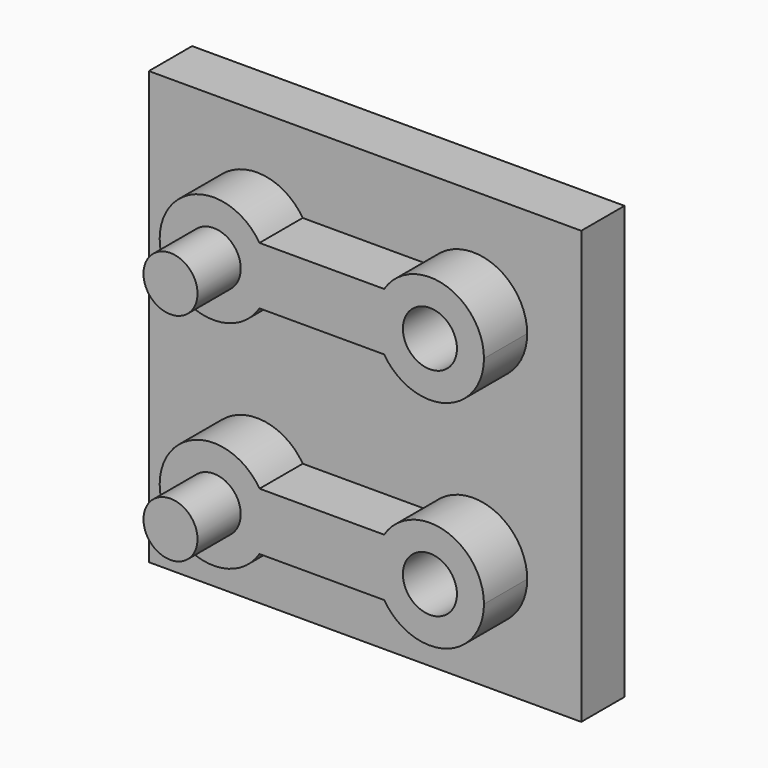
from build123d import *

# Parameters (mm, degrees)
F0_W     = 50.8
F0_H     = 50.8
F0_R     = 3.175
F1_DEPTH = 6.35
F2_DEPTH = 12.7
F3_R     = 3.175
F4_DEPTH = 6.35


with BuildPart() as f1:
    # F0 (on Front) → F1 (new body)
    with BuildSketch(Plane.XZ):
        Rectangle(F0_W, F0_H)
        with Locations((-12.7, -12.7)):
            Circle(F0_R, mode=Mode.SUBTRACT)
        with Locations((-12.7, 12.7)):
            Circle(F0_R, mode=Mode.SUBTRACT)
        with Locations((-12.7, 12.7)):
            Circle(F0_R)
        with Locations((-12.7, -12.7)):
            Circle(F0_R)
    extrude(amount=-F1_DEPTH)

    # F0 (on Front) → F2 (join)
    with BuildSketch(Plane.XZ):
        with Locations((-12.7, -12.7)):
            Circle(F0_R)
        with Locations((-12.7, 12.7)):
            Circle(F0_R)
    extrude(amount=F2_DEPTH)


with BuildPart() as f4:
    # F3 (on face) → F4 (new body)
    with BuildSketch(Plane.XZ):
        with BuildLine():
            ThreePointArc((-7.326959, 9.315783), (-6.599127, 10.938795), (-6.35, 12.7))
            ThreePointArc((-6.35, 12.7), (-6.599127, 14.461205), (-7.326959, 16.084217))
            ThreePointArc((-7.326959, 16.084217), (-19.05, 12.7), (-7.326959, 9.315783))
        make_face()
        with Locations((-12.7, 12.7)):
            Circle(F3_R, mode=Mode.SUBTRACT)
        with BuildLine():
            ThreePointArc((-7.326959, 16.084217), (-6.599127, 14.461205), (-6.35, 12.7))
            ThreePointArc((-6.35, 12.7), (-6.599127, 10.938795), (-7.326959, 9.315783))
            Line((-7.326959, 9.315783), (7.326959, 9.315783))
            ThreePointArc((7.326959, 9.315783), (6.35, 12.7), (7.326959, 16.084217))
            Line((7.326959, 16.084217), (-7.326959, 16.084217))
        make_face()
        with BuildLine():
            ThreePointArc((19.05, 12.7), (14.461205, 18.800873), (7.326959, 16.084217))
            ThreePointArc((7.326959, 16.084217), (6.35, 12.7), (7.326959, 9.315783))
            ThreePointArc((7.326959, 9.315783), (14.461205, 6.599127), (19.05, 12.7))
        make_face()
        with Locations((12.7, 12.7)):
            Circle(F3_R, mode=Mode.SUBTRACT)
        with BuildLine():
            ThreePointArc((-7.330537, -16.089892), (-6.600058, -14.464427), (-6.35, -12.7))
            ThreePointArc((-6.35, -12.7), (-6.596454, -10.948078), (-7.316686, -9.332147))
            ThreePointArc((-7.316686, -9.332147), (-19.049987, -12.686985), (-7.330537, -16.089892))
        make_face()
        with Locations((-12.7, -12.7)):
            Circle(F3_R, mode=Mode.SUBTRACT)
        with BuildLine():
            ThreePointArc((-7.316686, -9.332147), (-6.596454, -10.948078), (-6.35, -12.7))
            ThreePointArc((-6.35, -12.7), (-6.600058, -14.464427), (-7.330537, -16.089892))
            Line((-7.330537, -16.089892), (7.330537, -16.089892))
            ThreePointArc((7.330537, -16.089892), (6.350013, -12.713015), (7.316686, -9.332147))
            Line((7.316686, -9.332147), (-7.316686, -9.332147))
        make_face()
        with BuildLine():
            ThreePointArc((19.05, -12.7), (14.451922, -6.596454), (7.316686, -9.332147))
            ThreePointArc((7.316686, -9.332147), (6.350013, -12.713015), (7.330537, -16.089892))
            ThreePointArc((7.330537, -16.089892), (14.464427, -18.799942), (19.05, -12.7))
        make_face()
        with Locations((12.7, -12.7)):
            Circle(F3_R, mode=Mode.SUBTRACT)
    extrude(amount=F4_DEPTH)


solid = Compound([f1.part, f4.part])
